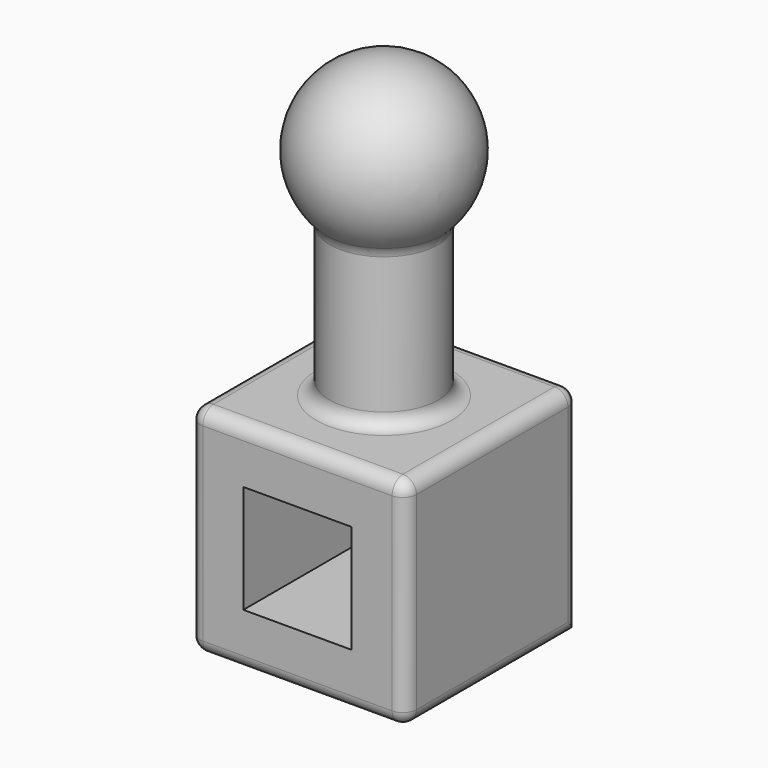
from build123d import *

# Parameters (mm, degrees)
F0_W     = 101.6
F0_H     = 101.6
F1_DEPTH = 101.6
F2_R     = 25.4
F3_DEPTH = 101.6
F6_W     = 50.8
F6_H     = 50.8
F7_DEPTH = 101.6
F8_R     = 6.35


with BuildPart() as f1:
    # F0 (on Top) → F1 (new body)
    with BuildSketch(Plane.XY):
        Rectangle(F0_W, F0_H)
    extrude(amount=F1_DEPTH)

    # F2 (on face) → F3 (join)
    with BuildSketch(Plane.XY.offset(101.6)):
        Circle(F2_R)
    extrude(amount=F3_DEPTH)

    # F4 (on face) → F5 (revolve)
    with BuildSketch(Plane.XY.offset(203.2)):
        with BuildLine():
            Line((0, -25.4), (0, -38.1))
            ThreePointArc((0, -38.1), (38.1, 0), (0, 38.1))
            Line((0, 38.1), (0, 25.4))
            ThreePointArc((0, 25.4), (17.960512, 17.960512), (25.4, 0))
            ThreePointArc((25.4, 0), (17.960512, -17.960512), (0, -25.4))
        make_face()
        with BuildLine():
            ThreePointArc((0, 25.4), (-25.4, 0), (0, -25.4))
            Line((0, -25.4), (0, 0))
            Line((0, 0), (0, 25.4))
        make_face()
    revolve(axis=Axis((0, -19.05, 203.2), (0, 1, 0)))

    # F6 (on face) → F7 (cut)
    with BuildSketch(Plane.XZ.offset(50.8)):
        with Locations((0, 50.8)):
            Rectangle(F6_W, F6_H)
    extrude(amount=-F7_DEPTH, mode=Mode.SUBTRACT)

    # F8
    f8_edges = [f1.edges().sort_by_distance(p)[0] for p in [
        (-50.8, 0, 101.6),
        (0, -50.8, 101.6),
        (50.8, 0, 101.6),
        (0, 50.8, 101.6),
        (50.8, 50.8, 50.8),
        (50.8, -50.8, 50.8),
        (50.8, 0, 0),
        (0, -50.8, 0),
        (-50.8, -50.8, 50.8),
        (-50.8, 50.8, 50.8),
        (-50.8, 0, 0),
        (-25.4, 0, 101.6),
        (25.4, 0, 138.200968),
        (-25.4, 0, 174.801937),
    ]]
    fillet(f8_edges, radius=F8_R)


solid = f1.part
